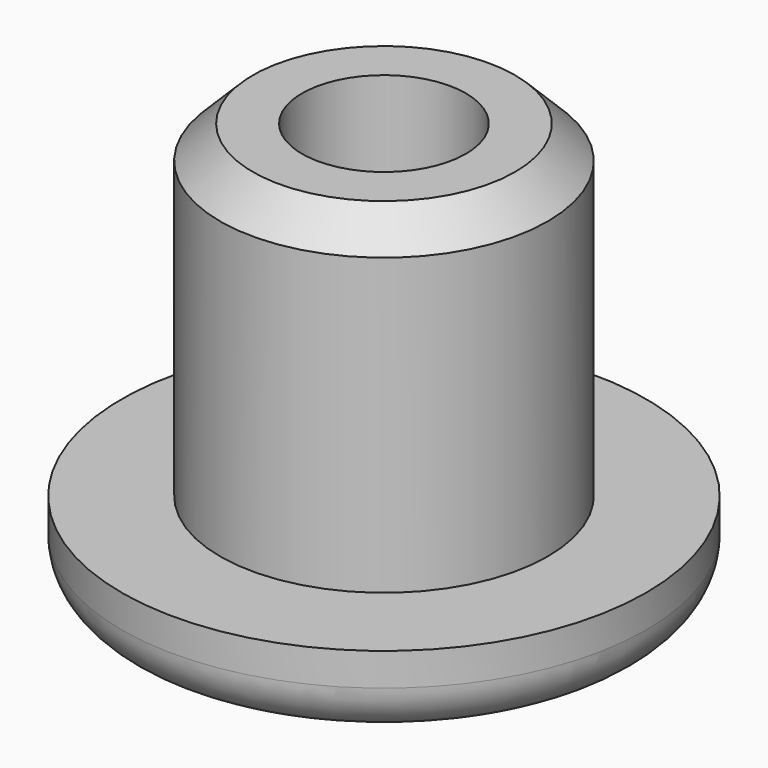
from build123d import *

# Parameters (mm, degrees)
SKETCH_R      = 16
PAD_DEPTH     = 5
SKETCH001_R   = 10
SKETCH001_R_2 = 5
PAD001_DEPTH  = 20
FILLET_R      = 3
CHAMFER_SIZE  = 2


with BuildPart() as part:
    # Sketch → Pad (new body)
    with BuildSketch(Plane.XY):
        Circle(SKETCH_R)
    extrude(amount=PAD_DEPTH)

    # Sketch001 (on Face3 of Pad) → Pad001 (join)
    with BuildSketch(Plane.XY.offset(5)):
        Circle(SKETCH001_R)
        Circle(SKETCH001_R_2, mode=Mode.SUBTRACT)
    extrude(amount=PAD001_DEPTH)

    # Fillet
    fillet_edges = [part.edges().sort_by_distance(p)[0] for p in [
        (-16, 0, 0),
    ]]
    fillet(fillet_edges, radius=FILLET_R)

    # Chamfer
    chamfer_edges = [part.edges().sort_by_distance(p)[0] for p in [
        (-10, 0, 25),
    ]]
    chamfer(chamfer_edges, length=CHAMFER_SIZE)


solid = part.part
